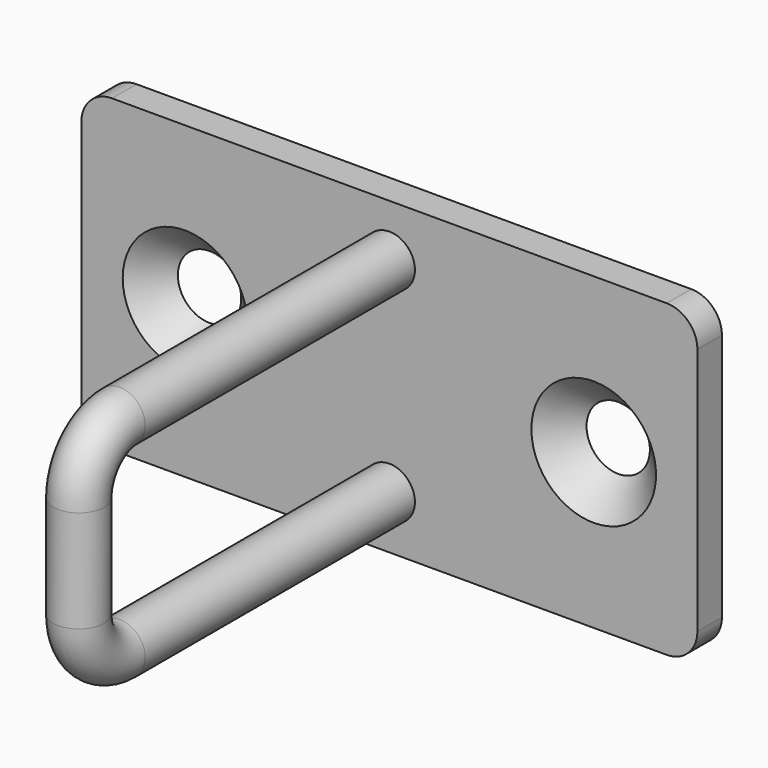
from build123d import *

# Parameters (mm, degrees)
PAD003_DEPTH        = 1.5
HOLE001_D           = 3
HOLE001_DEPTH       = 25
HOLE001_CSINK_D     = 6.1
HOLE001_CSINK_ANGLE = 90
SKETCH009_R         = 1.25


with BuildPart() as part:
    # Sketch006 → Pad003 (new body)
    with BuildSketch(Plane.XZ):
        with BuildLine():
            Line((-15.075, 6.075), (-15.075, -6.075))
            ThreePointArc((-15.075, -6.075), (-14.63566, -7.13566), (-13.575, -7.575))
            Line((-13.575, -7.575), (13.575, -7.575))
            ThreePointArc((13.575, -7.575), (14.63566, -7.13566), (15.075, -6.075))
            Line((15.075, -6.075), (15.075, 6.075))
            ThreePointArc((15.075, 6.075), (14.63566, 7.13566), (13.575, 7.575))
            Line((13.575, 7.575), (-13.575, 7.575))
            ThreePointArc((-13.575, 7.575), (-14.63566, 7.13566), (-15.075, 6.075))
        make_face()
    extrude(amount=PAD003_DEPTH)

    # Hole001
    with Locations(Plane.XZ.offset(1.5)):
        with Locations((-10, 0), (10, 0)):
            CounterSinkHole(HOLE001_D / 2, HOLE001_CSINK_D / 2, depth=HOLE001_DEPTH, counter_sink_angle=HOLE001_CSINK_ANGLE)

    # AdditivePipe: sweep along a path in Sketch008
    with BuildLine(Plane.YZ) as additivepipe_path:
        Line((-1.5, 5), (-18, 5))
        ThreePointArc((-18, 5), (-19.767767, 4.267767), (-20.5, 2.5))
        Line((-20.5, 2.5), (-20.5, -2.5))
        ThreePointArc((-20.5, -2.5), (-19.767767, -4.267767), (-18, -5))
        Line((-18, -5), (-1.5, -5))
    # Sketch009 (on Face5 of Hole001) → AdditivePipe (sweep)
    with BuildSketch(Plane.XZ.offset(1.5)):
        with Locations((0, -5)):
            Circle(SKETCH009_R)
    sweep(path=additivepipe_path.line)


with BuildPart() as part_1:
    # Body001 placement: moved
    add(part.part.moved(Location((0, 5, 17))))


solid = part_1.part
